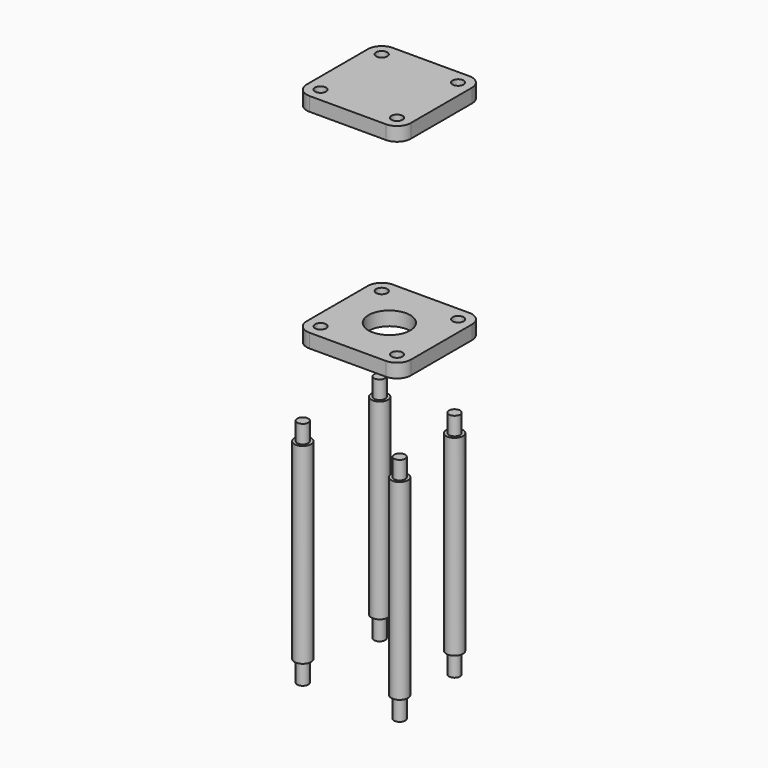
from build123d import *

# Parameters (mm, degrees)
F0_R      = 4
F0_R_2    = 15
F1_DEPTH  = 10
F3_R      = 4
F4_DEPTH  = 10
F6_R      = 6
F7_DEPTH  = 138
F8_R      = 4
F9_DEPTH  = 15
F10_R     = 4
F11_DEPTH = 15
F12_R     = 4
F13_DEPTH = 15
F14_R     = 4
F15_DEPTH = 15
F16_R     = 4
F17_DEPTH = 13
F18_R     = 4
F19_DEPTH = 13
F20_R     = 4
F21_DEPTH = 13
F22_R     = 4
F23_DEPTH = 13


with BuildPart() as f1:
    # F0 (on Top) → F1 (new body)
    with BuildSketch(Plane.XY):
        with BuildLine():
            Line((-27.5, -37.5), (27.5, -37.5))
            ThreePointArc((27.5, -37.5), (34.571068, -34.571068), (37.5, -27.5))
            Line((37.5, -27.5), (37.5, 27.5))
            ThreePointArc((37.5, 27.5), (34.571068, 34.571068), (27.5, 37.5))
            Line((27.5, 37.5), (-27.5, 37.5))
            ThreePointArc((-27.5, 37.5), (-34.571068, 34.571068), (-37.5, 27.5))
            Line((-37.5, 27.5), (-37.5, -27.5))
            ThreePointArc((-37.5, -27.5), (-34.571068, -34.571068), (-27.5, -37.5))
        make_face()
        with Locations((-27.5, -27.5)):
            Circle(F0_R, mode=Mode.SUBTRACT)
        with Locations((27.5, -27.5)):
            Circle(F0_R, mode=Mode.SUBTRACT)
        with Locations((-27.5, 27.5)):
            Circle(F0_R, mode=Mode.SUBTRACT)
        Circle(F0_R_2, mode=Mode.SUBTRACT)
        with Locations((27.5, 27.5)):
            Circle(F0_R, mode=Mode.SUBTRACT)
    extrude(amount=F1_DEPTH)


with BuildPart() as f4:
    # F3 (on offset) → F4 (new body)
    with BuildSketch(Plane.XY.offset(150)):
        with BuildLine():
            ThreePointArc((-37.5, -27.5), (-34.571068, -34.571068), (-27.5, -37.5))
            Line((-27.5, -37.5), (27.5, -37.5))
            ThreePointArc((27.5, -37.5), (34.571068, -34.571068), (37.5, -27.5))
            Line((37.5, -27.5), (37.5, 27.5))
            ThreePointArc((37.5, 27.5), (34.571068, 34.571068), (27.5, 37.5))
            Line((27.5, 37.5), (-27.5, 37.5))
            ThreePointArc((-27.5, 37.5), (-34.571068, 34.571068), (-37.5, 27.5))
            Line((-37.5, 27.5), (-37.5, -27.5))
        make_face()
        with Locations((-27.5, -27.5)):
            Circle(F3_R, mode=Mode.SUBTRACT)
        with Locations((27.5, -27.5)):
            Circle(F3_R, mode=Mode.SUBTRACT)
        with Locations((-27.5, 27.5)):
            Circle(F3_R, mode=Mode.SUBTRACT)
        with Locations((27.5, 27.5)):
            Circle(F3_R, mode=Mode.SUBTRACT)
    extrude(amount=F4_DEPTH)


with BuildPart() as f7:
    # F6 (on offset) → F7 (new body)
    with BuildSketch(Plane.XY.offset(-200)):
        with Locations((35.534116, -35.141796)):
            Circle(F6_R)
        with Locations((26.064606, 26.107289)):
            Circle(F6_R)
        with Locations((-34.421506, 34.317683)):
            Circle(F6_R)
        with Locations((-34.421506, -34.893726)):
            Circle(F6_R)
    extrude(amount=F7_DEPTH)

    # F8 (on face) → F9 (join)
    with BuildSketch(Plane(origin=(0, 0, -200), x_dir=(1, 0, 0), z_dir=(0, 0, -1))):
        with Locations((35.534116, 35.141796)):
            Circle(F8_R)
    extrude(amount=F9_DEPTH)

    # F10 (on face) → F11 (join)
    with BuildSketch(Plane(origin=(0, 0, -200), x_dir=(1, 0, 0), z_dir=(0, 0, -1))):
        with Locations((26.064606, -26.107289)):
            Circle(F10_R)
    extrude(amount=F11_DEPTH)

    # F12 (on face) → F13 (join)
    with BuildSketch(Plane(origin=(0, 0, -200), x_dir=(1, 0, 0), z_dir=(0, 0, -1))):
        with Locations((-34.421506, 34.893726)):
            Circle(F12_R)
    extrude(amount=F13_DEPTH)

    # F14 (on face) → F15 (join)
    with BuildSketch(Plane(origin=(0, 0, -200), x_dir=(1, 0, 0), z_dir=(0, 0, -1))):
        with Locations((-34.421506, -34.317683)):
            Circle(F14_R)
    extrude(amount=F15_DEPTH)

    # F16 (on face) → F17 (join)
    with BuildSketch(Plane.XY.offset(-62)):
        with Locations((26.064606, 26.107289)):
            Circle(F16_R)
    extrude(amount=F17_DEPTH)

    # F18 (on face) → F19 (join)
    with BuildSketch(Plane.XY.offset(-62)):
        with Locations((35.534116, -35.141796)):
            Circle(F18_R)
    extrude(amount=F19_DEPTH)

    # F20 (on face) → F21 (join)
    with BuildSketch(Plane.XY.offset(-62)):
        with Locations((-34.421506, -34.893726)):
            Circle(F20_R)
    extrude(amount=F21_DEPTH)

    # F22 (on face) → F23 (join)
    with BuildSketch(Plane.XY.offset(-62)):
        with Locations((-34.421506, 34.317683)):
            Circle(F22_R)
    extrude(amount=F23_DEPTH)


solid = Compound([f1.part, f4.part, f7.part])
